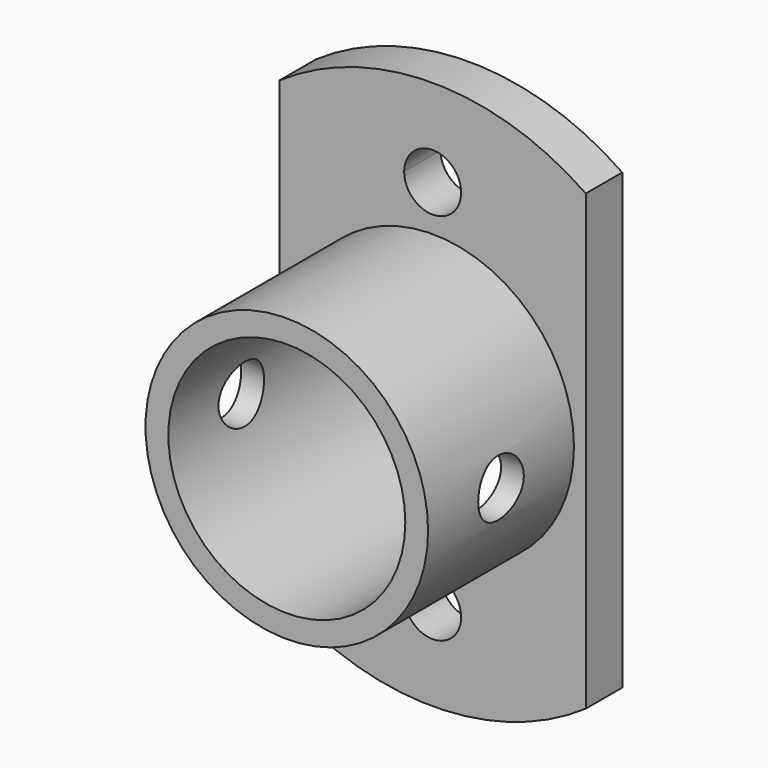
from build123d import *

# Parameters (mm, degrees)
F0_R     = 6.2
F1_DEPTH = 2
F0_R_2   = 5.2
F2_DEPTH = 10
F3_R     = 1.25
F4_DEPTH = 15


with BuildPart() as f1:
    # F0 (on Front) → F1 (new body)
    with BuildSketch(Plane.XZ):
        with BuildLine():
            Line((1.2499564027, -8.2104398957), (6.7196736159, -8.2104398957))
            Line((6.7196736159, -8.2104398957), (6.7196736159, 8.2104398957))
            Line((6.7196736159, 8.2104398957), (1.2499564027, 8.2104398957))
            ThreePointArc((1.2499564027, 8.2104398957), (1.2499891006, 8.2052199934), (1.25, 8.2))
            ThreePointArc((1.25, 8.2), (-0.0052199934, 6.9500108994), (-1.2499564027, 8.2104398957))
            Line((-1.2499564027, 8.2104398957), (-6.7196736159, 8.2104398957))
            Line((-6.7196736159, 8.2104398957), (-6.7196736159, -8.2104398957))
            Line((-6.7196736159, -8.2104398957), (-1.2499564027, -8.2104398957))
            ThreePointArc((-1.2499564027, -8.2104398957), (-0.0052199934, -6.9500108994), (1.25, -8.2))
            ThreePointArc((1.25, -8.2), (1.2499891006, -8.2052199934), (1.2499564027, -8.2104398957))
        make_face()
        Circle(F0_R, mode=Mode.SUBTRACT)
        with BuildLine():
            Line((1.2499564027, 8.2104398957), (6.7196736159, 8.2104398957))
            Line((6.7196736159, 8.2104398957), (6.7196736159, 9.95100941))
            ThreePointArc((6.7196736159, 9.95100941), (0, 12.0439815451), (-6.7196736159, 9.95100941))
            Line((-6.7196736159, 9.95100941), (-6.7196736159, 8.2104398957))
            Line((-6.7196736159, 8.2104398957), (-1.2499564027, 8.2104398957))
            ThreePointArc((-1.2499564027, 8.2104398957), (0, 9.45), (1.2499564027, 8.2104398957))
        make_face()
        with BuildLine():
            Line((6.7196736159, -9.95100941), (6.7196736159, -8.2104398957))
            Line((6.7196736159, -8.2104398957), (1.2499564027, -8.2104398957))
            ThreePointArc((1.2499564027, -8.2104398957), (0, -9.45), (-1.2499564027, -8.2104398957))
            Line((-1.2499564027, -8.2104398957), (-6.7196736159, -8.2104398957))
            Line((-6.7196736159, -8.2104398957), (-6.7196736159, -9.95100941))
            ThreePointArc((-6.7196736159, -9.95100941), (0, -12.0439815451), (6.7196736159, -9.95100941))
        make_face()
    extrude(amount=F1_DEPTH)

    # F0 (on Front) → F2 (join)
    with BuildSketch(Plane.XZ):
        Circle(F0_R)
        Circle(F0_R_2, mode=Mode.SUBTRACT)
    extrude(amount=F2_DEPTH)

    # F3 (on face) → F4 (cut)
    with BuildSketch(Plane.YZ.offset(6.7196736159)):
        with Locations((-6, 0)):
            Circle(F3_R)
    extrude(amount=-F4_DEPTH, mode=Mode.SUBTRACT)


solid = f1.part
